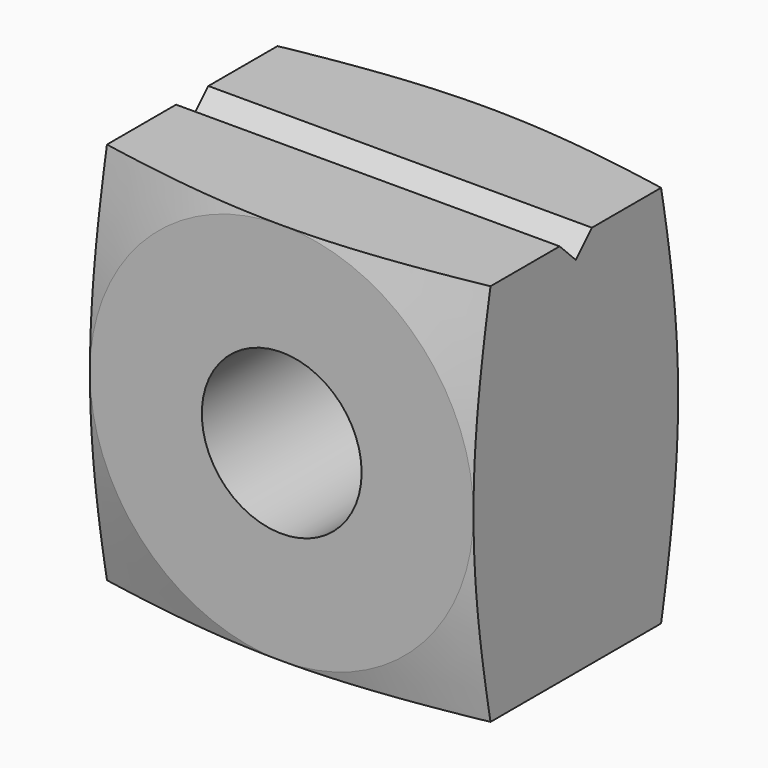
from build123d import *

# Parameters (mm, degrees)
F0_R     = 3.96875
F1_DEPTH = 12.7
F5_DEPTH = 127


with BuildPart() as f1:
    # F0 (on Front) → F1 (new body)
    with BuildSketch(Plane.XZ):
        with BuildLine():
            ThreePointArc((0, -9.525), (6.7351920908, -6.7351920908), (9.525, 0))
            ThreePointArc((9.525, 0), (6.7351920908, 6.7351920908), (0, 9.525))
            ThreePointArc((0, 9.525), (-6.7351920908, 6.7351920908), (-9.525, 0))
            ThreePointArc((-9.525, 0), (-6.7351920908, -6.7351920908), (0, -9.525))
        make_face()
        Circle(F0_R, mode=Mode.SUBTRACT)
        with BuildLine():
            Line((9.525, -9.525), (9.525, 0))
            ThreePointArc((9.525, 0), (6.7351920908, -6.7351920908), (0, -9.525))
            Line((0, -9.525), (9.525, -9.525))
        make_face()
        with BuildLine():
            ThreePointArc((0, 9.525), (6.7351920908, 6.7351920908), (9.525, 0))
            Line((9.525, 0), (9.525, 9.525))
            Line((9.525, 9.525), (0, 9.525))
        make_face()
        with BuildLine():
            ThreePointArc((-9.525, 0), (-6.7351920908, 6.7351920908), (0, 9.525))
            Line((0, 9.525), (-9.525, 9.525))
            Line((-9.525, 9.525), (-9.525, 0))
        make_face()
        with BuildLine():
            Line((-9.525, -9.525), (0, -9.525))
            ThreePointArc((0, -9.525), (-6.7351920908, -6.7351920908), (-9.525, 0))
            Line((-9.525, 0), (-9.525, -9.525))
        make_face()
    extrude(amount=F1_DEPTH)

    # F4 (on face) → F5 (cut)
    with BuildSketch(Plane(origin=(-9.525, 0, 0), x_dir=(0, -1, 0), z_dir=(-1, 0, 0))):
        Polygon((3.6136890898, 11.2591073548), (6.35, 8.5227964446), (9.0863109102, 11.2591073548), align=None)
    extrude(amount=-F5_DEPTH, mode=Mode.SUBTRACT)

    # F6 (on face) → F7 (revolve, cut)
    with BuildSketch(Plane.YZ):
        Polygon((-12.7, 15.6255830079), (-12.7, 9.525), (-11.0653537097, 15.6255830079), align=None)
    revolve(axis=Axis((0, 0, 0), (0, 1, 0)), mode=Mode.SUBTRACT)

    # F8 (on face) → F9 (revolve, cut)
    with BuildSketch(Plane.YZ):
        Polygon((-1.1722899654, 13.910143229), (0, 9.5350975171), (0, 13.910143229), align=None)
    revolve(axis=Axis((0, 0, 0), (0, -1, 0)), mode=Mode.SUBTRACT)


solid = f1.part
